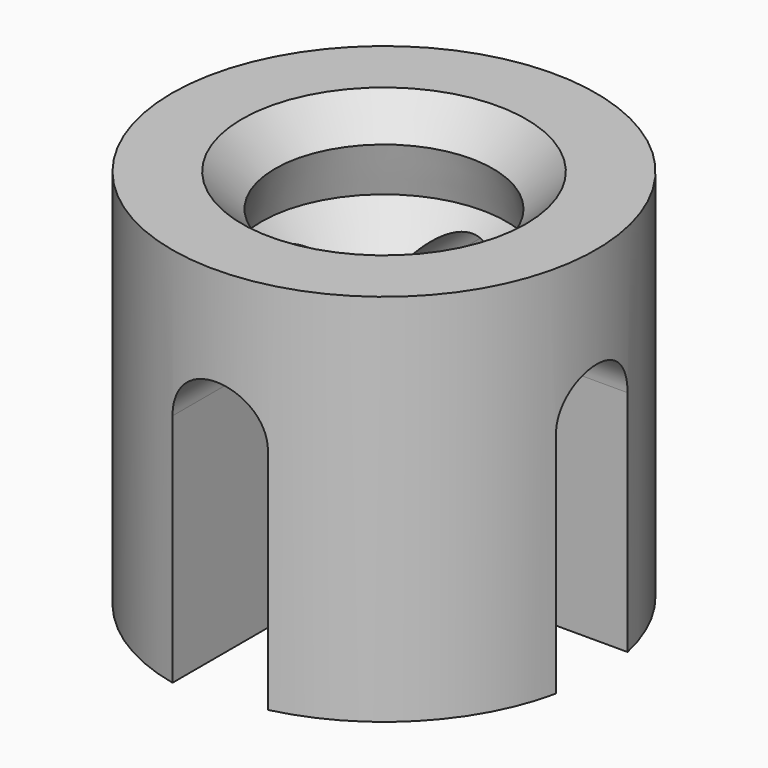
from build123d import *

# Parameters (mm, degrees)
F3_DEPTH      = 56.0778768191
F3_DEPTH_BACK = 56.0778768191
F5_DEPTH      = 56.0778769191
F5_DEPTH_BACK = 56.0778769191


with BuildPart() as f1:
    # F0 (on Front) → F1 (revolve)
    with BuildSketch(Plane.XZ):
        Polygon((0, -57.1250468493), (-15.5477952212, -57.1250468493), (-11.3551309332, -44.5470511913), (-20.4713844212, -35.7113393235), (-15.8971827477, -22.5355681032), (-26.5535367653, -9.2588011175), (-21.1380142719, 4.3673580512), (-32.4480030819, 16.3774517456), (-28.8245640695, 29.8727303743), (-37.5592783093, 38.6074446142), (-56.0768768191, 38.6074446142), (-56.0768768191, -72.1487551928), (0, -72.1487551928), align=None)
    revolve(axis=Axis((0, 0, -64.636901021), (0, 0, -1)))

    # F2 (on Front) → F3 (cut, two sides)
    with BuildSketch(Plane.XZ) as f3_sk:
        Polygon((-81.2481045723, -62.1343776584), (-79.4872939587, -92.5083234906), (101.4357730746, -92.5083234906), (101.4357730746, -60.3735670447), (12.955147773, -60.3735670447), (12.955147773, 0), (-12.1363736689, 0), (-12.1363736689, -62.1343776584), align=None)
        with BuildLine():
            ThreePointArc((12.955147773, 0), (0.4093870521, 12.545760721), (-12.1363736689, 0))
            Line((-12.1363736689, 0), (12.955147773, 0))
        make_face()
    extrude(amount=-F3_DEPTH, mode=Mode.SUBTRACT)
    extrude(f3_sk.sketch, amount=F3_DEPTH_BACK, mode=Mode.SUBTRACT)

    # F4 (on Right) → F5 (cut, two sides)
    with BuildSketch(Plane.YZ) as f5_sk:
        with BuildLine():
            Line((12.0539087802, -70.0524225831), (12.0539087802, 0))
            ThreePointArc((12.0539087802, 0), (0.1746942289, 11.8792145513), (-11.7045203224, 0))
            Line((-11.7045203224, 0), (-11.7045203224, -70.0524225831))
            Line((-11.7045203224, -70.0524225831), (12.0539087802, -70.0524225831))
        make_face()
    extrude(amount=-F5_DEPTH, mode=Mode.SUBTRACT)
    extrude(f5_sk.sketch, amount=F5_DEPTH_BACK, mode=Mode.SUBTRACT)


solid = f1.part
